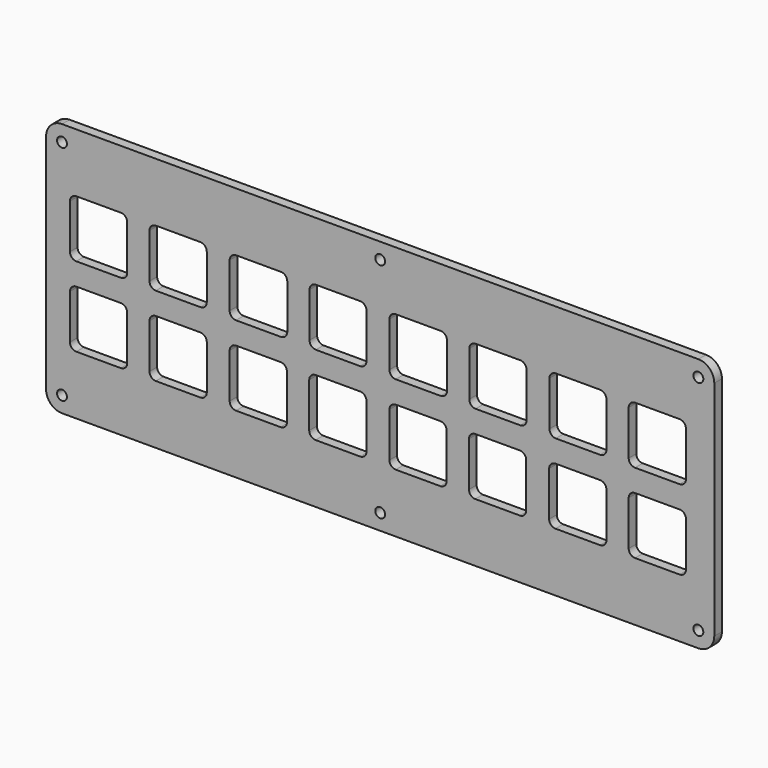
from build123d import *

# Parameters (mm, degrees)
F0_R     = 1.55
F1_DEPTH = 3


with BuildPart() as f1:
    # F0 (on Front) → F1 (new body)
    with BuildSketch(Plane.XZ):
        with BuildLine():
            Line((84.540003, 43.188475), (-115.459997, 43.188475))
            ThreePointArc((-115.459997, 43.188475), (-118.995531, 41.724008), (-120.459997, 38.188475))
            Line((-120.459997, 38.188475), (-120.459997, -31.811525))
            ThreePointArc((-120.459997, -31.811525), (-118.995531, -35.347059), (-115.459997, -36.811525))
            Line((-115.459997, -36.811525), (84.540003, -36.811525))
            ThreePointArc((84.540003, -36.811525), (88.075536, -35.347059), (89.540003, -31.811525))
            Line((89.540003, -31.811525), (89.540003, 38.188475))
            ThreePointArc((89.540003, 38.188475), (88.075536, 41.724008), (84.540003, 43.188475))
        make_face()
        with Locations((-115.459997, -31.811525)):
            Circle(F0_R, mode=Mode.SUBTRACT)
        with BuildLine():
            ThreePointArc((-112.959997, -2.311525), (-112.374211, -0.897312), (-110.959997, -0.311525))
            Line((-110.959997, -0.311525), (-96.959997, -0.311525))
            ThreePointArc((-96.959997, -0.311525), (-95.545784, -0.897312), (-94.959997, -2.311525))
            Line((-94.959997, -2.311525), (-94.959997, -16.311525))
            ThreePointArc((-94.959997, -16.311525), (-95.545784, -17.725739), (-96.959997, -18.311525))
            Line((-96.959997, -18.311525), (-110.959997, -18.311525))
            ThreePointArc((-110.959997, -18.311525), (-112.374211, -17.725739), (-112.959997, -16.311525))
            Line((-112.959997, -16.311525), (-112.959997, -2.311525))
        make_face(mode=Mode.SUBTRACT)
        with BuildLine():
            ThreePointArc((-87.959997, -2.311525), (-87.374211, -0.897312), (-85.959997, -0.311525))
            Line((-85.959997, -0.311525), (-71.959997, -0.311525))
            ThreePointArc((-71.959997, -0.311525), (-70.545784, -0.897312), (-69.959997, -2.311525))
            Line((-69.959997, -2.311525), (-69.959997, -16.311525))
            ThreePointArc((-69.959997, -16.311525), (-70.545784, -17.725739), (-71.959997, -18.311525))
            Line((-71.959997, -18.311525), (-85.959997, -18.311525))
            ThreePointArc((-85.959997, -18.311525), (-87.374211, -17.725739), (-87.959997, -16.311525))
            Line((-87.959997, -16.311525), (-87.959997, -2.311525))
        make_face(mode=Mode.SUBTRACT)
        with BuildLine():
            ThreePointArc((-62.759997, -2.311525), (-62.174211, -0.897312), (-60.759997, -0.311525))
            Line((-60.759997, -0.311525), (-46.759997, -0.311525))
            ThreePointArc((-46.759997, -0.311525), (-45.345784, -0.897312), (-44.759997, -2.311525))
            Line((-44.759997, -2.311525), (-44.759997, -16.311525))
            ThreePointArc((-44.759997, -16.311525), (-45.345784, -17.725739), (-46.759997, -18.311525))
            Line((-46.759997, -18.311525), (-60.759997, -18.311525))
            ThreePointArc((-60.759997, -18.311525), (-62.174211, -17.725739), (-62.759997, -16.311525))
            Line((-62.759997, -16.311525), (-62.759997, -2.311525))
        make_face(mode=Mode.SUBTRACT)
        with BuildLine():
            ThreePointArc((-37.759997, -2.311525), (-37.174211, -0.897312), (-35.759997, -0.311525))
            Line((-35.759997, -0.311525), (-21.759997, -0.311525))
            ThreePointArc((-21.759997, -0.311525), (-20.345784, -0.897312), (-19.759997, -2.311525))
            Line((-19.759997, -2.311525), (-19.759997, -16.311525))
            ThreePointArc((-19.759997, -16.311525), (-20.345784, -17.725739), (-21.759997, -18.311525))
            Line((-21.759997, -18.311525), (-35.759997, -18.311525))
            ThreePointArc((-35.759997, -18.311525), (-37.174211, -17.725739), (-37.759997, -16.311525))
            Line((-37.759997, -16.311525), (-37.759997, -2.311525))
        make_face(mode=Mode.SUBTRACT)
        with Locations((-15.459997, -31.811525)):
            Circle(F0_R, mode=Mode.SUBTRACT)
        with Locations((84.540003, -31.811525)):
            Circle(F0_R, mode=Mode.SUBTRACT)
        with BuildLine():
            ThreePointArc((-12.559997, -2.311525), (-11.974211, -0.897312), (-10.559997, -0.311525))
            Line((-10.559997, -0.311525), (3.440003, -0.311525))
            ThreePointArc((3.440003, -0.311525), (4.854216, -0.897312), (5.440003, -2.311525))
            Line((5.440003, -2.311525), (5.440003, -16.311525))
            ThreePointArc((5.440003, -16.311525), (4.854216, -17.725739), (3.440003, -18.311525))
            Line((3.440003, -18.311525), (-10.559997, -18.311525))
            ThreePointArc((-10.559997, -18.311525), (-11.974211, -17.725739), (-12.559997, -16.311525))
            Line((-12.559997, -16.311525), (-12.559997, -2.311525))
        make_face(mode=Mode.SUBTRACT)
        with BuildLine():
            ThreePointArc((12.440003, -2.311525), (13.025789, -0.897312), (14.440003, -0.311525))
            Line((14.440003, -0.311525), (28.440003, -0.311525))
            ThreePointArc((28.440003, -0.311525), (29.854216, -0.897312), (30.440003, -2.311525))
            Line((30.440003, -2.311525), (30.440003, -16.311525))
            ThreePointArc((30.440003, -16.311525), (29.854216, -17.725739), (28.440003, -18.311525))
            Line((28.440003, -18.311525), (14.440003, -18.311525))
            ThreePointArc((14.440003, -18.311525), (13.025789, -17.725739), (12.440003, -16.311525))
            Line((12.440003, -16.311525), (12.440003, -2.311525))
        make_face(mode=Mode.SUBTRACT)
        with BuildLine():
            ThreePointArc((37.640003, -2.311525), (38.225789, -0.897312), (39.640003, -0.311525))
            Line((39.640003, -0.311525), (53.640003, -0.311525))
            ThreePointArc((53.640003, -0.311525), (55.054216, -0.897312), (55.640003, -2.311525))
            Line((55.640003, -2.311525), (55.640003, -16.311525))
            ThreePointArc((55.640003, -16.311525), (55.054216, -17.725739), (53.640003, -18.311525))
            Line((53.640003, -18.311525), (39.640003, -18.311525))
            ThreePointArc((39.640003, -18.311525), (38.225789, -17.725739), (37.640003, -16.311525))
            Line((37.640003, -16.311525), (37.640003, -2.311525))
        make_face(mode=Mode.SUBTRACT)
        with BuildLine():
            ThreePointArc((62.640003, -2.311525), (63.225789, -0.897312), (64.640003, -0.311525))
            Line((64.640003, -0.311525), (78.640003, -0.311525))
            ThreePointArc((78.640003, -0.311525), (80.054216, -0.897312), (80.640003, -2.311525))
            Line((80.640003, -2.311525), (80.640003, -16.311525))
            ThreePointArc((80.640003, -16.311525), (80.054216, -17.725739), (78.640003, -18.311525))
            Line((78.640003, -18.311525), (64.640003, -18.311525))
            ThreePointArc((64.640003, -18.311525), (63.225789, -17.725739), (62.640003, -16.311525))
            Line((62.640003, -16.311525), (62.640003, -2.311525))
        make_face(mode=Mode.SUBTRACT)
        with BuildLine():
            ThreePointArc((-112.959997, 22.688475), (-112.374211, 24.102688), (-110.959997, 24.688475))
            Line((-110.959997, 24.688475), (-96.959997, 24.688475))
            ThreePointArc((-96.959997, 24.688475), (-95.545784, 24.102688), (-94.959997, 22.688475))
            Line((-94.959997, 22.688475), (-94.959997, 8.688475))
            ThreePointArc((-94.959997, 8.688475), (-95.545784, 7.274261), (-96.959997, 6.688475))
            Line((-96.959997, 6.688475), (-110.959997, 6.688475))
            ThreePointArc((-110.959997, 6.688475), (-112.374211, 7.274261), (-112.959997, 8.688475))
            Line((-112.959997, 8.688475), (-112.959997, 22.688475))
        make_face(mode=Mode.SUBTRACT)
        with BuildLine():
            ThreePointArc((-69.959997, 8.688475), (-70.545784, 7.274261), (-71.959997, 6.688475))
            Line((-71.959997, 6.688475), (-85.959997, 6.688475))
            ThreePointArc((-85.959997, 6.688475), (-87.374211, 7.274261), (-87.959997, 8.688475))
            Line((-87.959997, 8.688475), (-87.959997, 22.688475))
            ThreePointArc((-87.959997, 22.688475), (-87.374211, 24.102688), (-85.959997, 24.688475))
            Line((-85.959997, 24.688475), (-71.959997, 24.688475))
            ThreePointArc((-71.959997, 24.688475), (-70.545784, 24.102688), (-69.959997, 22.688475))
            Line((-69.959997, 22.688475), (-69.959997, 8.688475))
        make_face(mode=Mode.SUBTRACT)
        with Locations((-115.459997, 38.188475)):
            Circle(F0_R, mode=Mode.SUBTRACT)
        with BuildLine():
            ThreePointArc((-62.759997, 22.688475), (-62.174211, 24.102688), (-60.759997, 24.688475))
            Line((-60.759997, 24.688475), (-46.659997, 24.688475))
            ThreePointArc((-46.659997, 24.688475), (-45.245784, 24.102688), (-44.659997, 22.688475))
            Line((-44.659997, 22.688475), (-44.659997, 8.688475))
            ThreePointArc((-44.659997, 8.688475), (-45.245784, 7.274261), (-46.659997, 6.688475))
            Line((-46.659997, 6.688475), (-60.759997, 6.688475))
            ThreePointArc((-60.759997, 6.688475), (-62.174211, 7.274261), (-62.759997, 8.688475))
            Line((-62.759997, 8.688475), (-62.759997, 22.688475))
        make_face(mode=Mode.SUBTRACT)
        with BuildLine():
            ThreePointArc((-37.659997, 22.688475), (-37.074211, 24.102688), (-35.659997, 24.688475))
            Line((-35.659997, 24.688475), (-21.759997, 24.688475))
            ThreePointArc((-21.759997, 24.688475), (-20.345784, 24.102688), (-19.759997, 22.688475))
            Line((-19.759997, 22.688475), (-19.759997, 8.688475))
            ThreePointArc((-19.759997, 8.688475), (-20.345784, 7.274261), (-21.759997, 6.688475))
            Line((-21.759997, 6.688475), (-35.659997, 6.688475))
            ThreePointArc((-35.659997, 6.688475), (-37.074211, 7.274261), (-37.659997, 8.688475))
            Line((-37.659997, 8.688475), (-37.659997, 22.688475))
        make_face(mode=Mode.SUBTRACT)
        with BuildLine():
            ThreePointArc((-12.559997, 22.688475), (-11.974211, 24.102688), (-10.559997, 24.688475))
            Line((-10.559997, 24.688475), (3.540003, 24.688475))
            ThreePointArc((3.540003, 24.688475), (4.954216, 24.102688), (5.540003, 22.688475))
            Line((5.540003, 22.688475), (5.540003, 8.688475))
            ThreePointArc((5.540003, 8.688475), (4.954216, 7.274261), (3.540003, 6.688475))
            Line((3.540003, 6.688475), (-10.559997, 6.688475))
            ThreePointArc((-10.559997, 6.688475), (-11.974211, 7.274261), (-12.559997, 8.688475))
            Line((-12.559997, 8.688475), (-12.559997, 22.688475))
        make_face(mode=Mode.SUBTRACT)
        with BuildLine():
            ThreePointArc((12.540003, 22.688475), (13.125789, 24.102688), (14.540003, 24.688475))
            Line((14.540003, 24.688475), (28.540003, 24.688475))
            ThreePointArc((28.540003, 24.688475), (29.954216, 24.102688), (30.540003, 22.688475))
            Line((30.540003, 22.688475), (30.540003, 8.688475))
            ThreePointArc((30.540003, 8.688475), (29.954216, 7.274261), (28.540003, 6.688475))
            Line((28.540003, 6.688475), (14.540003, 6.688475))
            ThreePointArc((14.540003, 6.688475), (13.125789, 7.274261), (12.540003, 8.688475))
            Line((12.540003, 8.688475), (12.540003, 22.688475))
        make_face(mode=Mode.SUBTRACT)
        with Locations((-15.459997, 38.188475)):
            Circle(F0_R, mode=Mode.SUBTRACT)
        with BuildLine():
            ThreePointArc((37.740003, 22.688475), (38.325789, 24.102688), (39.740003, 24.688475))
            Line((39.740003, 24.688475), (53.640003, 24.688475))
            ThreePointArc((53.640003, 24.688475), (55.054216, 24.102688), (55.640003, 22.688475))
            Line((55.640003, 22.688475), (55.640003, 8.688475))
            ThreePointArc((55.640003, 8.688475), (55.054216, 7.274261), (53.640003, 6.688475))
            Line((53.640003, 6.688475), (39.740003, 6.688475))
            ThreePointArc((39.740003, 6.688475), (38.325789, 7.274261), (37.740003, 8.688475))
            Line((37.740003, 8.688475), (37.740003, 22.688475))
        make_face(mode=Mode.SUBTRACT)
        with BuildLine():
            ThreePointArc((62.640003, 22.688475), (63.225789, 24.102688), (64.640003, 24.688475))
            Line((64.640003, 24.688475), (78.640003, 24.688475))
            ThreePointArc((78.640003, 24.688475), (80.054216, 24.102688), (80.640003, 22.688475))
            Line((80.640003, 22.688475), (80.640003, 8.688475))
            ThreePointArc((80.640003, 8.688475), (80.054216, 7.274261), (78.640003, 6.688475))
            Line((78.640003, 6.688475), (64.640003, 6.688475))
            ThreePointArc((64.640003, 6.688475), (63.225789, 7.274261), (62.640003, 8.688475))
            Line((62.640003, 8.688475), (62.640003, 22.688475))
        make_face(mode=Mode.SUBTRACT)
        with Locations((84.540003, 38.188475)):
            Circle(F0_R, mode=Mode.SUBTRACT)
    extrude(amount=F1_DEPTH)


solid = f1.part
